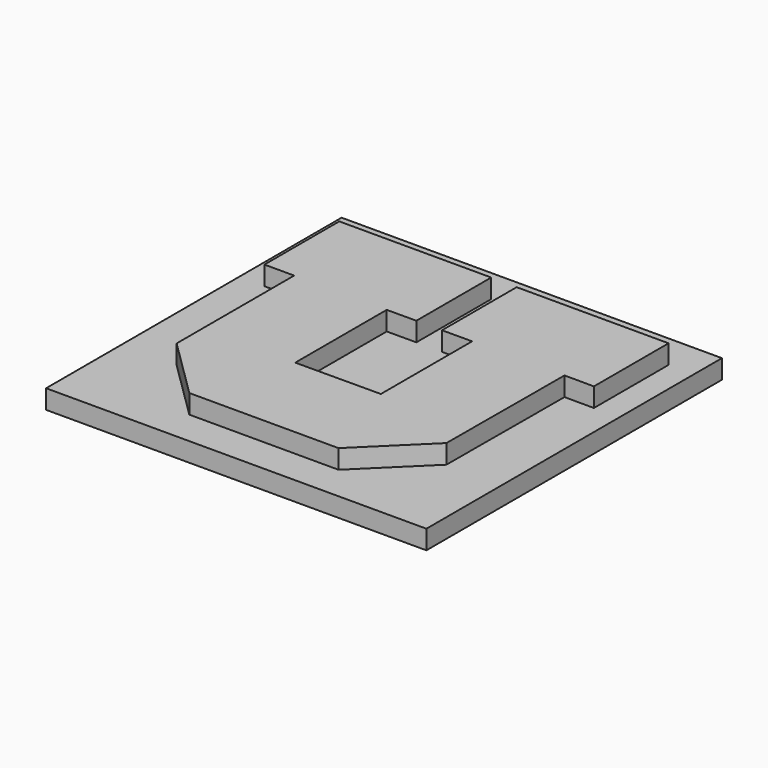
from build123d import *

# Parameters (mm, degrees)
F1_W     = 100
F1_H     = 100
F2_DEPTH = 5
F5_DEPTH = 5
F7_DEPTH = 54.1
F9_DEPTH = 25


with BuildPart() as f2:
    # F1 (on Top) → F2 (new body)
    with BuildSketch(Plane.XY):
        with Locations((50, 50)):
            Rectangle(F1_W, F1_H)
    extrude(amount=F2_DEPTH)

    # F6 (on face) → F7 (cut)
    with BuildSketch(Plane.XY.offset(10)):
        Polygon((100.1621037722, 3.0405181703), (37.4508686364, 3.0405181703), (0, 3.0405181703), (0, 0), (100.1621037722, 0), align=None)
    extrude(amount=-F7_DEPTH, mode=Mode.SUBTRACT)

    # F8 (on face) → F9 (cut)
    with BuildSketch(Plane.XY.offset(10)):
        Polygon((99.8216490268, 103.9248853922), (99.8216490268, 74.5721507005), (99.8216490268, -5.4602026939), (108.0576479435, -5.4602026939), (108.0576479435, 103.9248853922), align=None)
    extrude(amount=-F9_DEPTH, mode=Mode.SUBTRACT)


with BuildPart() as f5:
    # F4 (on face) → F5 (new body)
    with BuildSketch(Plane.XY.offset(5)):
        Polygon((46.5413259785, 90.9048467875), (6.6605079919, 90.9048467875), (6.6605079919, 90.8547322993), (6.6605079919, 66.3502812386), (14.4654614851, 66.3502812386), (14.4654614851, 27.7836583555), (30.2518866956, 12.2214881703), (69.4081783295, 12.2214881703), (85.2703973651, 27.7836583555), (85.4252055287, 66.3502812386), (93.1611926851, 66.3192286372), (93.1611926851, 90.8190310001), (53.2952547073, 90.8190310001), (53.2952547073, 66.3192286372), (61.0556825995, 66.3502812386), (61.1755126527, 66.3452222943), (61.1755126527, 36.4032736805), (38.7808980863, 36.3136637972), (38.7808980863, 66.3192286372), (46.5413259785, 66.3502812386), (46.5413259785, 90.8190310001), align=None)
    extrude(amount=F5_DEPTH)


solid = Compound([f2.part, f5.part])
